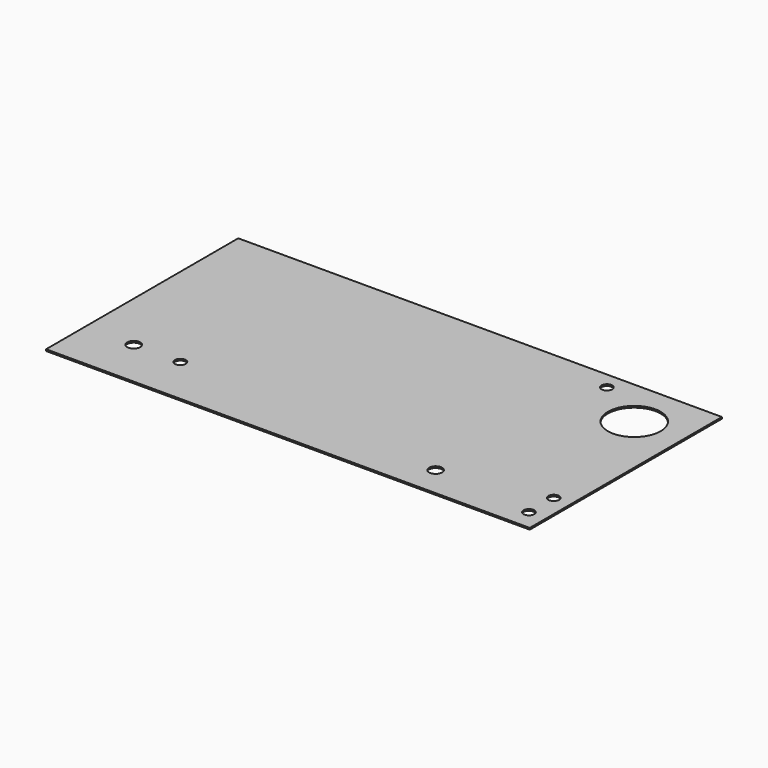
from build123d import *

# Parameters (mm, degrees)
F0_W     = 1192
F0_H     = 592
F0_R     = 16
F0_R_2   = 13.25
F0_R_3   = 65
F1_DEPTH = 4


with BuildPart() as f1:
    # F0 (on Top) → F1 (new body)
    with BuildSketch(Plane.XY):
        with Locations((596, 296)):
            Rectangle(F0_W, F0_H)
        with Locations((120, 120)):
            Circle(F0_R, mode=Mode.SUBTRACT)
        with Locations((235, 120)):
            Circle(F0_R_2, mode=Mode.SUBTRACT)
        with Locations((1150, 50)):
            Circle(F0_R_2, mode=Mode.SUBTRACT)
        with Locations((900, 75)):
            Circle(F0_R, mode=Mode.SUBTRACT)
        with Locations((1150, 126.5)):
            Circle(F0_R_2, mode=Mode.SUBTRACT)
        with Locations((1072, 472)):
            Circle(F0_R_3, mode=Mode.SUBTRACT)
        with Locations((942, 550)):
            Circle(F0_R_2, mode=Mode.SUBTRACT)
    extrude(amount=F1_DEPTH)


solid = f1.part
